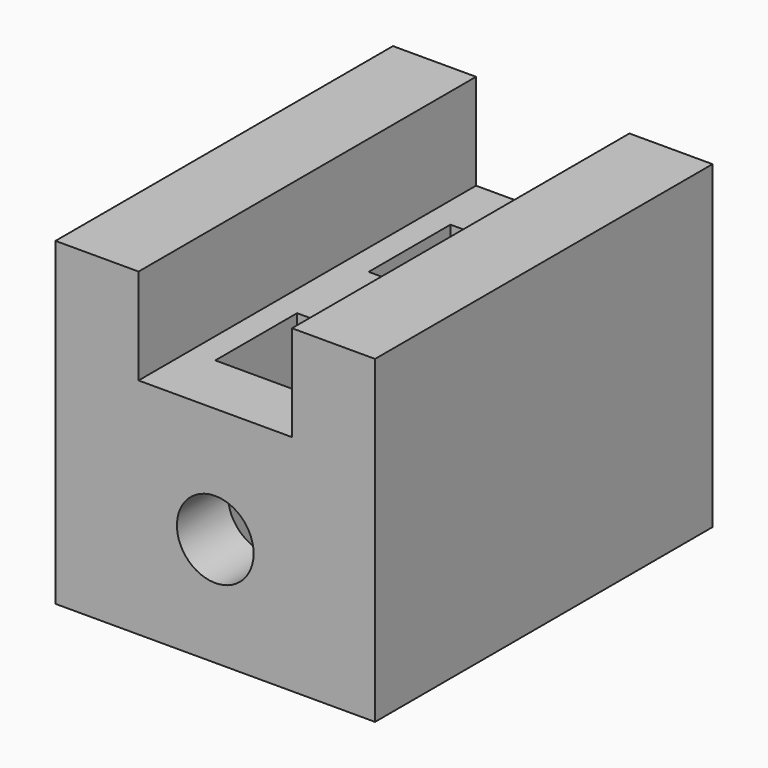
from build123d import *

# Parameters (mm, degrees)
F0_W     = 50
F0_H     = 66
F1_DEPTH = 50
F2_W     = 24
F2_H     = 15
F3_DEPTH = 66
F4_R     = 6
F5_DEPTH = 66
F6_W     = 12
F6_H     = 16
F7_DEPTH = 35
F8_W     = 2
F8_H     = 16
F9_DEPTH = 35


with BuildPart() as f1:
    # F0 (on Top) → F1 (new body)
    with BuildSketch(Plane.XY):
        with Locations((25, 33)):
            Rectangle(F0_W, F0_H)
    extrude(amount=F1_DEPTH)

    # F2 (on face) → F3 (cut)
    with BuildSketch(Plane.XZ):
        with Locations((25, 42.5)):
            Rectangle(F2_W, F2_H)
    extrude(amount=-F3_DEPTH, mode=Mode.SUBTRACT)

    # F4 (on face) → F5 (cut)
    with BuildSketch(Plane.XZ):
        with Locations((25, 17)):
            Circle(F4_R)
    extrude(amount=-F5_DEPTH, mode=Mode.SUBTRACT)

    # F6 (on face) → F7 (cut)
    with BuildSketch(Plane.XY.offset(35)):
        with Locations((25, 48)):
            Rectangle(F6_W, F6_H)
        with Locations((25, 18)):
            Rectangle(F6_W, F6_H)
    extrude(amount=-F7_DEPTH, mode=Mode.SUBTRACT)

    # F8 (on face) → F9 (cut)
    with BuildSketch(Plane.XY.offset(35)):
        with Locations((18, 48)):
            Rectangle(F8_W, F8_H)
        with Locations((32, 48)):
            Rectangle(F8_W, F8_H)
        with Locations((18, 18)):
            Rectangle(F8_W, F8_H)
        with Locations((32, 18)):
            Rectangle(F8_W, F8_H)
    extrude(amount=-F9_DEPTH, mode=Mode.SUBTRACT)


solid = f1.part
